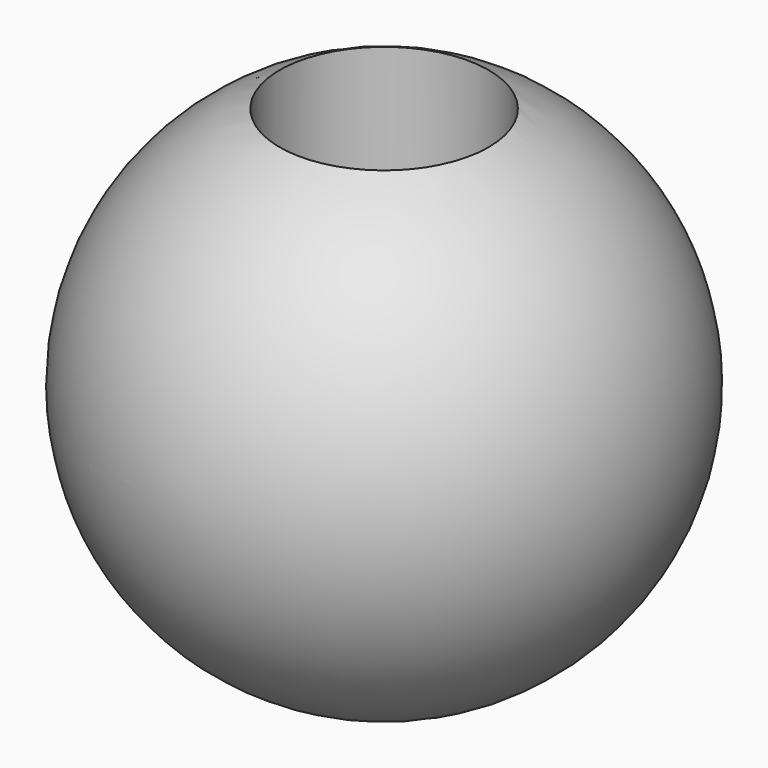
from build123d import *

# Parameters (mm, degrees)
F0_R          = 60.325
F3_DEPTH      = 152.401
F3_DEPTH_BACK = 152.401


with BuildPart() as f2:
    # F1 (on Top) → F2 (revolve)
    with BuildSketch(Plane.XY):
        with BuildLine():
            Line((0, -152.4), (0, 152.4))
            ThreePointArc((0, 152.4), (-152.4, 0), (0, -152.4))
        make_face()
    revolve(axis=Axis((0, 96.117534, 0), (0, 1, 0)))

    # F0 (on Top) → F3 (cut, two sides)
    with BuildSketch(Plane.XY) as f3_sk:
        Circle(F0_R)
    extrude(amount=F3_DEPTH, mode=Mode.SUBTRACT)
    extrude(f3_sk.sketch, amount=-F3_DEPTH_BACK, mode=Mode.SUBTRACT)


solid = f2.part
